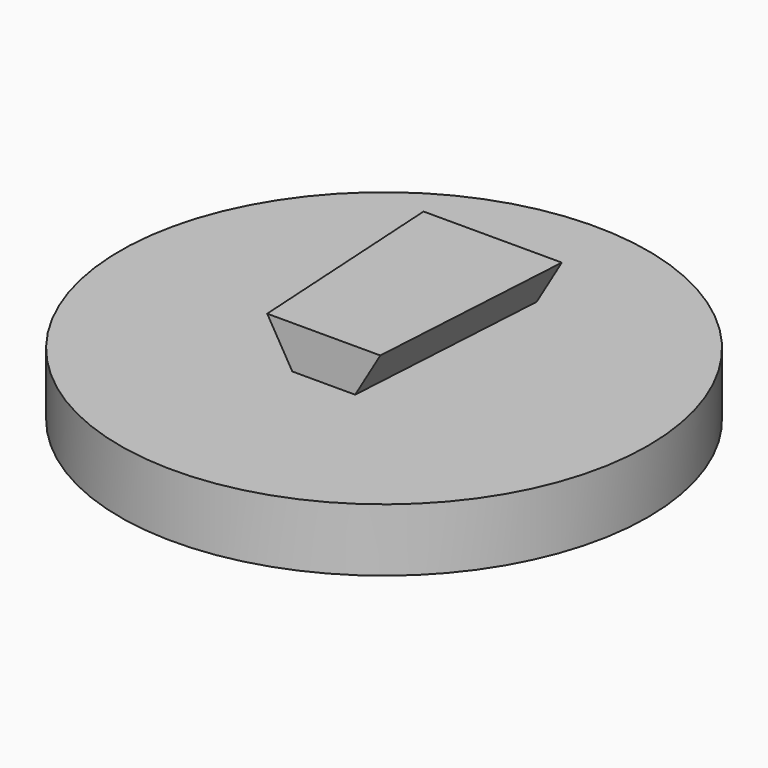
from build123d import *

# Parameters (mm, degrees)
F0_R     = 10.5
F1_DEPTH = 2.5


with BuildPart() as f1:
    # F0 (on Top) → F1 (new body)
    with BuildSketch(Plane.XY):
        Circle(F0_R)
    extrude(amount=-F1_DEPTH)

    # F5 (on offset) → F6 section 0
    with BuildSketch(Plane.XZ.offset(-5.4)):
        Polygon((-1.75, 0), (1.75, 0), (2.75, 1.7), (-2.75, 1.7), align=None)
    # F3 (on offset) → F6 section 1
    with BuildSketch(Plane.XZ.offset(3)):
        Polygon((-1.25, 0), (1.25, 0), (2.25, 1.7), (-2.25, 1.7), align=None)
    loft()


solid = f1.part
